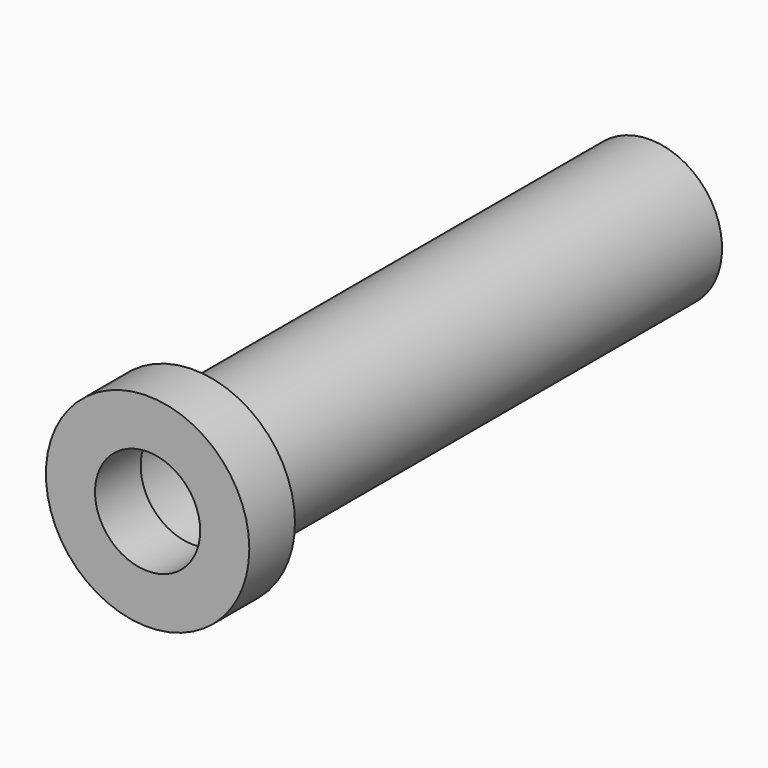
from build123d import *

# Parameters (mm, degrees)
F0_R     = 45.280654
F0_R_2   = 23.410003
F1_DEPTH = 25.4
F2_R     = 32.209595
F2_R_2   = 28.919341
F3_DEPTH = 254


with BuildPart() as f1:
    # F0 (on Front) → F1 (new body)
    with BuildSketch(Plane.XZ):
        Circle(F0_R)
        Circle(F0_R_2, mode=Mode.SUBTRACT)
    extrude(amount=F1_DEPTH)

    # F2 (on face) → F3 (join)
    with BuildSketch(Plane(origin=(0, 0, 0), x_dir=(-1, 0, 0), z_dir=(0, 1, 0))):
        Circle(F2_R)
        Circle(F2_R_2, mode=Mode.SUBTRACT)
    extrude(amount=F3_DEPTH)


solid = f1.part
